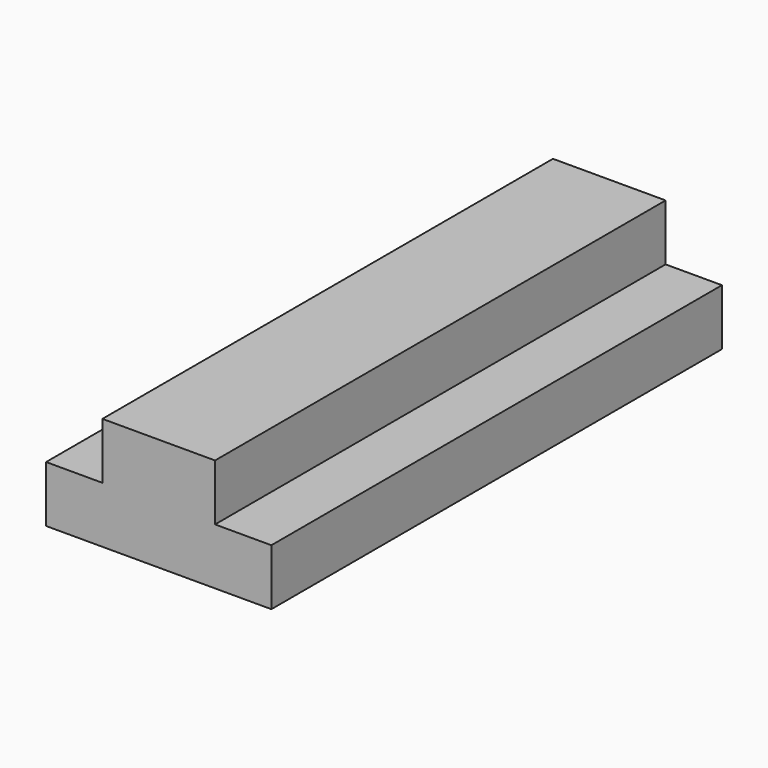
from build123d import *

# Parameters (mm, degrees)
F0_W     = 10
F0_H     = 50
F1_DEPTH = 10
F2_W     = 50
F2_H     = 5
F3_DEPTH = 5
F4_W     = 50
F4_H     = 5
F5_DEPTH = 5


with BuildPart() as f1:
    # F0 (on Top) → F1 (new body)
    with BuildSketch(Plane.XY):
        with Locations((-41.163797, 39.292196)):
            Rectangle(F0_W, F0_H)
    extrude(amount=F1_DEPTH)

    # F2 (on face) → F3 (join)
    with BuildSketch(Plane.YZ.offset(-36.163797)):
        with Locations((39.292196, 2.5)):
            Rectangle(F2_W, F2_H)
    extrude(amount=F3_DEPTH)

    # F4 (on face) → F5 (join)
    with BuildSketch(Plane(origin=(-46.163797, 0, 0), x_dir=(0, -1, 0), z_dir=(-1, 0, 0))):
        with Locations((-39.292196, 2.5)):
            Rectangle(F4_W, F4_H)
    extrude(amount=F5_DEPTH)


solid = f1.part
